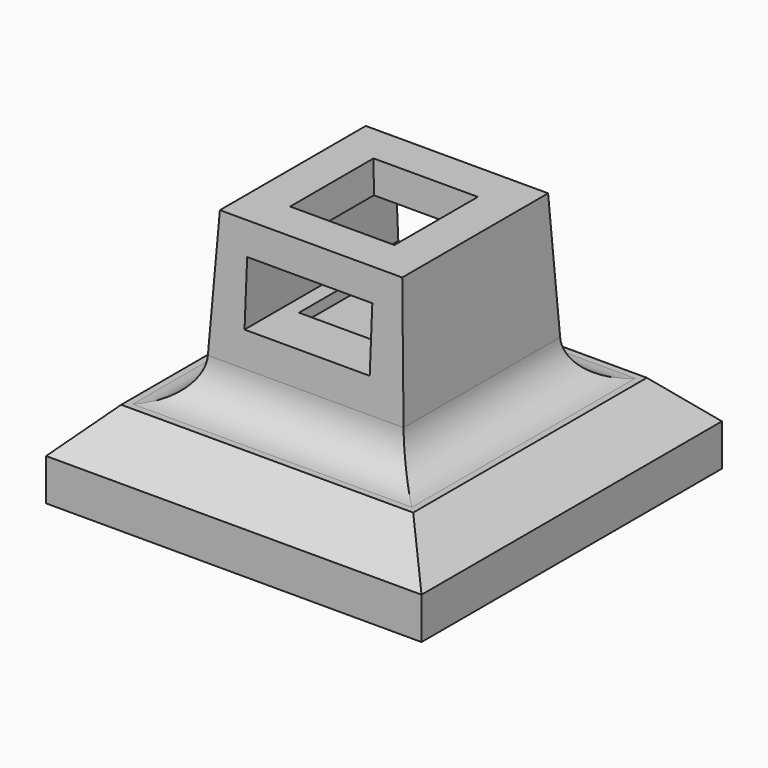
from build123d import *

# Parameters (mm, degrees)
F0_W          = 18
F0_H          = 18
F0_W_2        = 10
F0_H_2        = 10
F1_DEPTH      = 4
F2_DEPTH      = 12
F2_TAPER      = 3
F3_SIZE       = 2
F4_R          = 2
F5_W          = 5
F5_H          = 5
F6_DEPTH      = 5
F6_TAPER      = 3
F7_W          = 6
F7_H          = 3
F8_DEPTH      = 25
F8_DEPTH_BACK = 25


with BuildPart() as f1:
    # F0 (on Top) → F1 (new body)
    with BuildSketch(Plane.XY):
        Rectangle(F0_W, F0_H)
        Rectangle(F0_W_2, F0_H_2, mode=Mode.SUBTRACT)
        Rectangle(F0_W_2, F0_H_2)
    extrude(amount=F1_DEPTH)

    # F0 (on Top) → F2 (join)
    with BuildSketch(Plane.XY):
        Rectangle(F0_W_2, F0_H_2)
    extrude(amount=F2_DEPTH, taper=F2_TAPER)

    # F3
    f3_edges = [f1.edges().sort_by_distance(p)[0] for p in [
        (-9, 0, 4),
        (0, -9, 4),
        (9, 0, 4),
        (0, 9, 4),
    ]]
    chamfer(f3_edges, length=F3_SIZE)

    # F4
    f4_edges = [f1.edges().sort_by_distance(p)[0] for p in [
        (0, -4.790369, 4),
        (-4.790369, 0, 4),
        (4.790369, 0, 4),
        (0, 4.790369, 4),
    ]]
    fillet(f4_edges, radius=F4_R)

    # F5 (on face) → F6 (cut)
    with BuildSketch(Plane.XY.offset(12)):
        Rectangle(F5_W, F5_H)
    extrude(amount=-F6_DEPTH, taper=F6_TAPER, mode=Mode.SUBTRACT)

    # F7 (on Front) → F8 (cut, two sides)
    with BuildSketch(Plane.XZ) as f8_sk:
        with Locations((0, 9)):
            Rectangle(F7_W, F7_H)
    extrude(amount=F8_DEPTH, mode=Mode.SUBTRACT)
    extrude(f8_sk.sketch, amount=-F8_DEPTH_BACK, mode=Mode.SUBTRACT)


solid = f1.part
